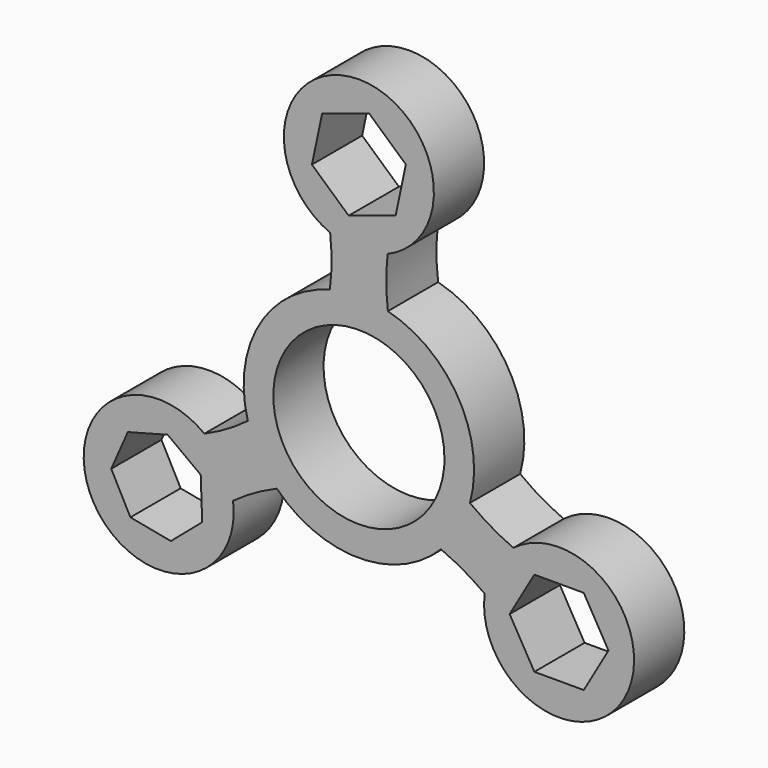
from build123d import *

# Parameters (mm, degrees)
F1_DEPTH = 8


with BuildPart() as f1:
    # F0 (on Front) → F1 (new body)
    with BuildSketch(Plane.XZ):
        with BuildLine():
            ThreePointArc((3.672208, 20.620274), (0, 38.993878), (-3.672208, 20.620274))
            Line((-3.672208, 20.620274), (-3.672208, 20.747529))
            ThreePointArc((-3.672208, 20.747529), (-3.664311, 20.680667), (-3.656581, 20.613784))
            ThreePointArc((-3.656581, 20.613784), (-3.482802, 17.406357), (-3.692215, 14.201059))
            ThreePointArc((-3.692215, 14.201059), (-12.707356, 7.336596), (-14.144586, -3.902978))
            ThreePointArc((-14.144586, -3.902978), (-16.815748, -5.686984), (-19.680351, -7.1402))
            ThreePointArc((-19.680351, -7.1402), (-19.742138, -7.166947), (-19.803991, -7.19354))
            Line((-19.803991, -7.19354), (-19.693785, -7.129912))
            ThreePointArc((-19.693785, -7.129912), (-33.769689, -19.496939), (-16.021578, -13.490362))
            Line((-16.021578, -13.490362), (-16.131784, -13.55399))
            ThreePointArc((-16.131784, -13.55399), (-16.077827, -13.51372), (-16.02377, -13.473584))
            ThreePointArc((-16.02377, -13.473584), (-13.332947, -11.719373), (-10.452371, -10.298081))
            ThreePointArc((-10.452371, -10.298081), (0, -14.673191), (10.452371, -10.298081))
            ThreePointArc((10.452371, -10.298081), (13.332947, -11.719373), (16.02377, -13.473584))
            ThreePointArc((16.02377, -13.473584), (16.077827, -13.51372), (16.131784, -13.55399))
            Line((16.131784, -13.55399), (16.021578, -13.490362))
            ThreePointArc((16.021578, -13.490362), (33.769689, -19.496939), (19.693785, -7.129912))
            Line((19.693785, -7.129912), (19.803991, -7.19354))
            ThreePointArc((19.803991, -7.19354), (19.742138, -7.166947), (19.680351, -7.1402))
            ThreePointArc((19.680351, -7.1402), (16.815748, -5.686984), (14.144586, -3.902978))
            ThreePointArc((14.144586, -3.902978), (12.707356, 7.336596), (3.692215, 14.201059))
            ThreePointArc((3.692215, 14.201059), (3.482802, 17.406357), (3.656581, 20.613784))
            ThreePointArc((3.656581, 20.613784), (3.664311, 20.680667), (3.672208, 20.747529))
            Line((3.672208, 20.747529), (3.672208, 20.620274))
        make_face()
        Polygon((-23.943451, -20.566496), (-29.098889, -19.578989), (-31.541188, -14.932604), (-29.431247, -10.126165), (-24.357895, -8.779017), (-20.141468, -11.90559), (-19.957023, -17.151512), align=None, mode=Mode.SUBTRACT)
        Polygon((31.788998, -14.720053), (28.642439, -20.170053), (22.349321, -20.170053), (19.202762, -14.720053), (22.349321, -9.270053), (28.642439, -9.270053), align=None, mode=Mode.SUBTRACT)
        with BuildLine():
            ThreePointArc((10.9, 0), (10.889444, -0.479582), (10.857798, -0.958236))
            ThreePointArc((10.857798, -0.958236), (9.439677, -5.45), (6.258756, -8.924011))
            ThreePointArc((6.258756, -8.924011), (-9.670327, 5.029392), (10.9, 0))
        make_face(mode=Mode.SUBTRACT)
        Polygon((4.68163, 25.234673), (-1.301197, 23.282979), (-5.982827, 27.488413), (-4.68163, 33.64554), (1.301197, 35.597234), (5.982827, 31.391801), align=None, mode=Mode.SUBTRACT)
        with BuildLine():
            Line((-3.672208, 20.747529), (-3.672208, 20.620274))
            ThreePointArc((-3.672208, 20.620274), (-3.664396, 20.617026), (-3.656581, 20.613784))
            ThreePointArc((-3.656581, 20.613784), (-3.664311, 20.680667), (-3.672208, 20.747529))
        make_face()
        with BuildLine():
            ThreePointArc((3.656581, 20.613784), (3.664396, 20.617026), (3.672208, 20.620274))
            Line((3.672208, 20.620274), (3.672208, 20.747529))
            ThreePointArc((3.672208, 20.747529), (3.664311, 20.680667), (3.656581, 20.613784))
        make_face()
        with BuildLine():
            ThreePointArc((-19.803991, -7.19354), (-19.742138, -7.166947), (-19.680351, -7.1402))
            ThreePointArc((-19.680351, -7.1402), (-19.687066, -7.135053), (-19.693785, -7.129912))
            Line((-19.693785, -7.129912), (-19.803991, -7.19354))
        make_face()
        with BuildLine():
            ThreePointArc((19.693785, -7.129912), (19.687066, -7.135053), (19.680351, -7.1402))
            ThreePointArc((19.680351, -7.1402), (19.742138, -7.166947), (19.803991, -7.19354))
            Line((19.803991, -7.19354), (19.693785, -7.129912))
        make_face()
        with BuildLine():
            Line((-16.131784, -13.55399), (-16.021578, -13.490362))
            ThreePointArc((-16.021578, -13.490362), (-16.02267, -13.481973), (-16.02377, -13.473584))
            ThreePointArc((-16.02377, -13.473584), (-16.077827, -13.51372), (-16.131784, -13.55399))
        make_face()
        with BuildLine():
            ThreePointArc((16.02377, -13.473584), (16.02267, -13.481973), (16.021578, -13.490362))
            Line((16.021578, -13.490362), (16.131784, -13.55399))
            ThreePointArc((16.131784, -13.55399), (16.077827, -13.51372), (16.02377, -13.473584))
        make_face()
    extrude(amount=F1_DEPTH)


solid = f1.part
